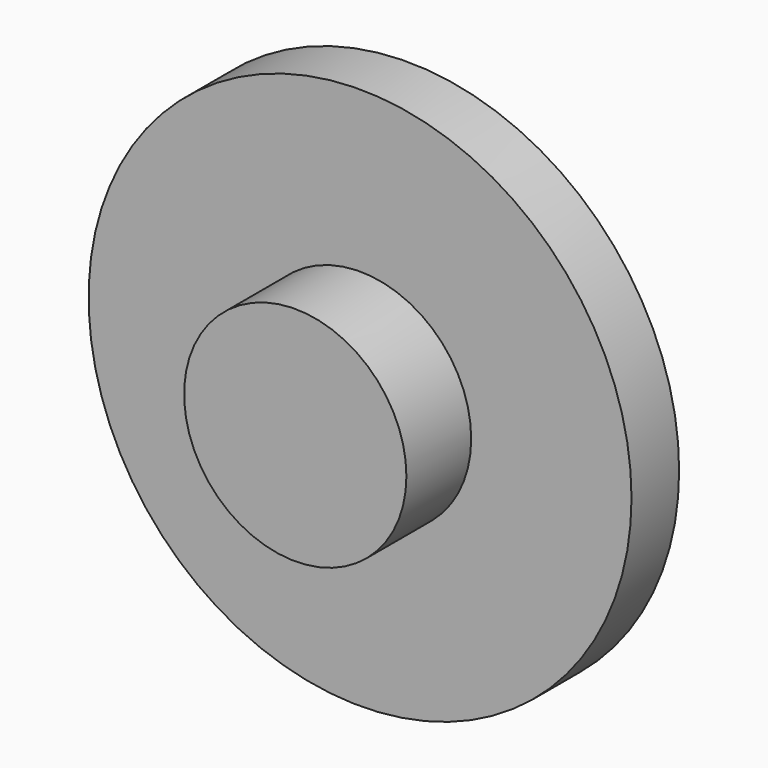
from build123d import *

# Parameters (mm, degrees)
CYLINDER009_R             = 4.35
CYLINDER009_DEPTH         = 5.5
CYLINDER008_R             = 10.625
CYLINDER008_DEPTH         = 2.33
FUSION002_PLACEMENT_ANGLE = 90


with BuildPart() as servoplate002:
    # Cylinder009 → Cylinder009 (new body)
    with BuildSketch(Plane.XY):
        Circle(CYLINDER009_R)
    extrude(amount=CYLINDER009_DEPTH)


with BuildPart() as servoplate003:
    # Cylinder008 → Cylinder008 (new body)
    with BuildSketch(Plane.XY):
        Circle(CYLINDER008_R)
    extrude(amount=CYLINDER008_DEPTH)

    # Fusion002: union servoPlate002
    add(servoplate002.part)


with BuildPart() as servoplate003_1:
    # Fusion002 placement: moved
    add(servoplate003.part.moved(Location((18, 19, 20))).rotate(Axis((18, 19, 20), (1, 0, 0)), FUSION002_PLACEMENT_ANGLE))


solid = servoplate003_1.part
